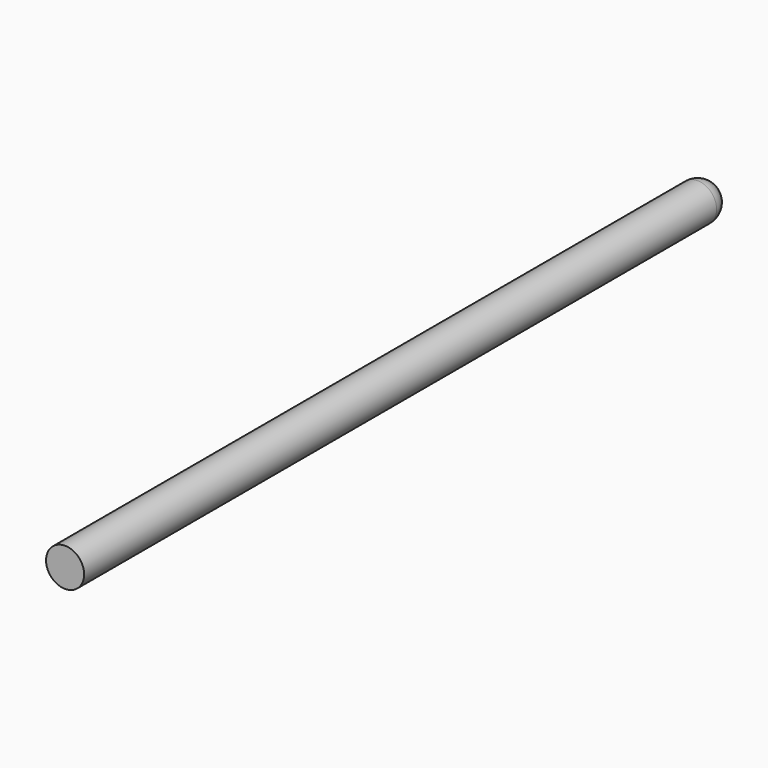
from build123d import *

# Parameters (mm, degrees)
F0_R     = 0.8
F1_DEPTH = 34
F2_R     = 0.8


with BuildPart() as f1:
    # F0 (on Front) → F1 (new body)
    with BuildSketch(Plane.XZ):
        Circle(F0_R)
    extrude(amount=-F1_DEPTH)

    # F2
    f2_edges = [f1.edges().sort_by_distance(p)[0] for p in [
        (-0.8, 34, 0),
    ]]
    fillet(f2_edges, radius=F2_R)


solid = f1.part
